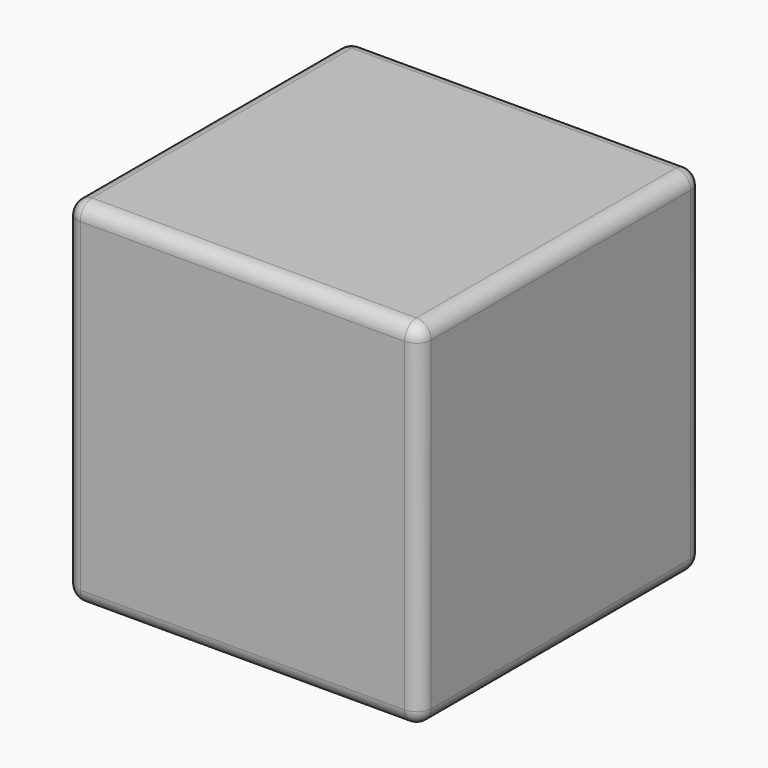
from build123d import *

# Parameters (mm, degrees)
F1_DEPTH = 76.2
F2_R     = 3.175


with BuildPart() as f1:
    # F0 (on Front) → F1 (new body)
    with BuildSketch(Plane.XZ):
        with BuildLine():
            Line((34.925, 38.1), (-34.925, 38.1))
            ThreePointArc((-34.925, 38.1), (-37.170064, 37.170064), (-38.1, 34.925))
            Line((-38.1, 34.925), (-38.1, -34.925))
            ThreePointArc((-38.1, -34.925), (-37.170064, -37.170064), (-34.925, -38.1))
            Line((-34.925, -38.1), (34.925, -38.1))
            ThreePointArc((34.925, -38.1), (37.170064, -37.170064), (38.1, -34.925))
            Line((38.1, -34.925), (38.1, 34.925))
            ThreePointArc((38.1, 34.925), (37.170064, 37.170064), (34.925, 38.1))
        make_face()
    extrude(amount=F1_DEPTH)

    # F2
    f2_edges = [f1.edges().sort_by_distance(p)[0] for p in [
        (0, -76.2, 38.1),
        (-38.1, -76.2, 0),
        (0, -76.2, -38.1),
        (38.1, -76.2, 0),
        (-38.1, 0, 0),
    ]]
    fillet(f2_edges, radius=F2_R)


solid = f1.part
